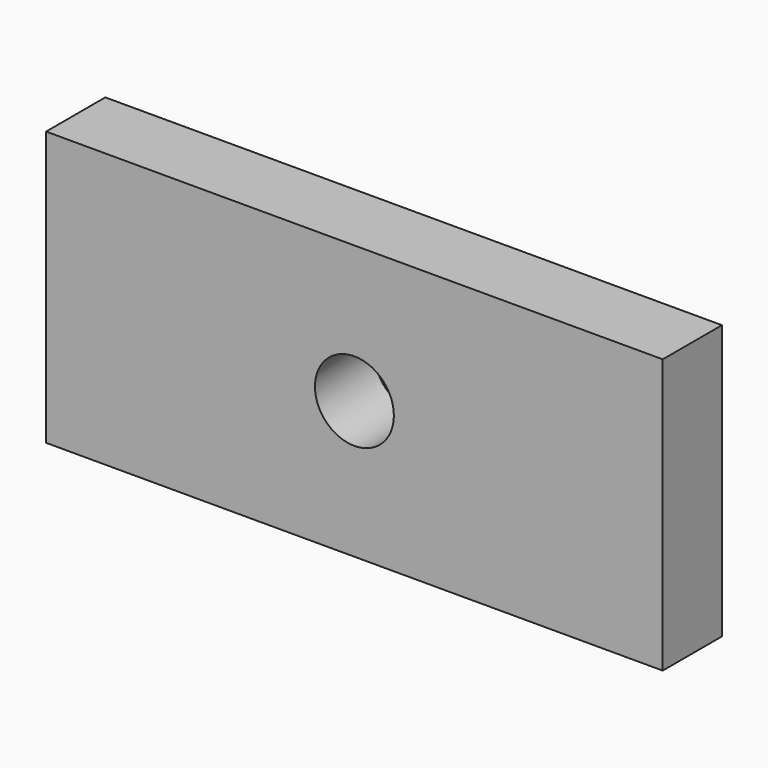
from build123d import *

# Parameters (mm, degrees)
F0_W     = 25
F0_H     = 11.11
F0_R     = 1.6
F1_DEPTH = 3


with BuildPart() as f1:
    # F0 (on Front) → F1 (new body)
    with BuildSketch(Plane.XZ):
        Rectangle(F0_W, F0_H)
        Circle(F0_R, mode=Mode.SUBTRACT)
    extrude(amount=-F1_DEPTH)


solid = f1.part
